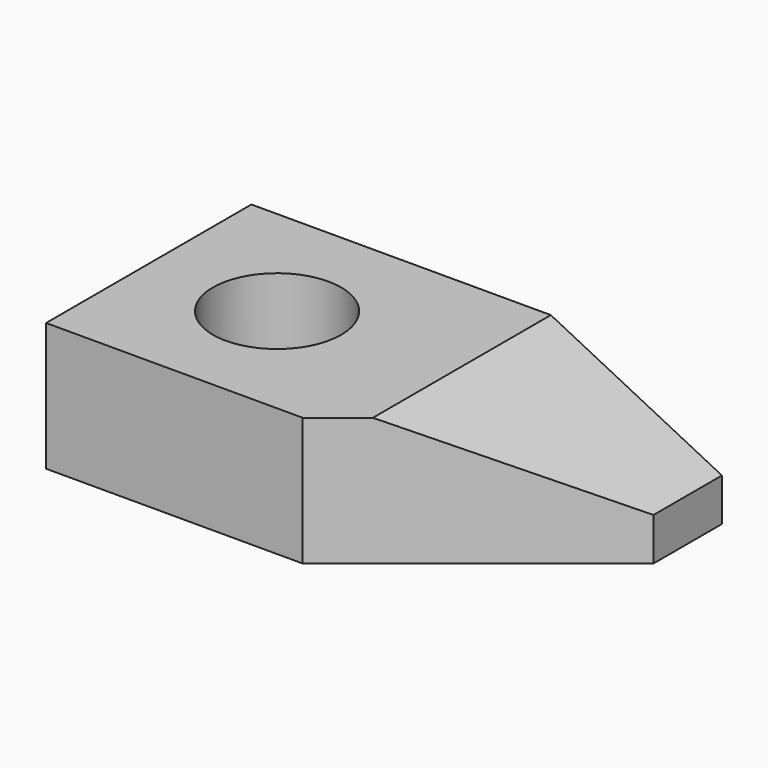
from build123d import *

# Parameters (mm, degrees)
F0_W     = 279.4
F0_H     = 76.2
F1_DEPTH = 152.4
F3_DEPTH = 125.1016873866
F4_SIZE2 = 50.8
F4_SIZE  = 101.6
F5_R     = 38.1
F6_DEPTH = 200.5284074694


with BuildPart() as f1:
    # F0 (on Front) → F1 (new body)
    with BuildSketch(Plane.XZ):
        Rectangle(F0_W, F0_H)
    extrude(amount=F1_DEPTH)

    # F2 (on face) → F3 (cut)
    with BuildSketch(Plane.XY.offset(38.1)):
        Polygon((139.7, -152.4), (139.7, -50.8), (12.7, -152.4), align=None)
    extrude(amount=-F3_DEPTH, mode=Mode.SUBTRACT)

    # F4
    f4_edges = [f1.edges().sort_by_distance(p)[0] for p in [
        (139.7, -25.4, 38.1),
    ]]
    f4_side = f1.faces().sort_by_distance((-17.386905, -68.640476, 38.1))[0]
    chamfer(f4_edges, length=F4_SIZE, length2=F4_SIZE2, reference=f4_side)

    # F5 (on face) → F6 (cut)
    with BuildSketch(Plane.XY.offset(38.1)):
        with Locations((-63.5, -76.2)):
            Circle(F5_R)
    extrude(amount=-F6_DEPTH, mode=Mode.SUBTRACT)


solid = f1.part
